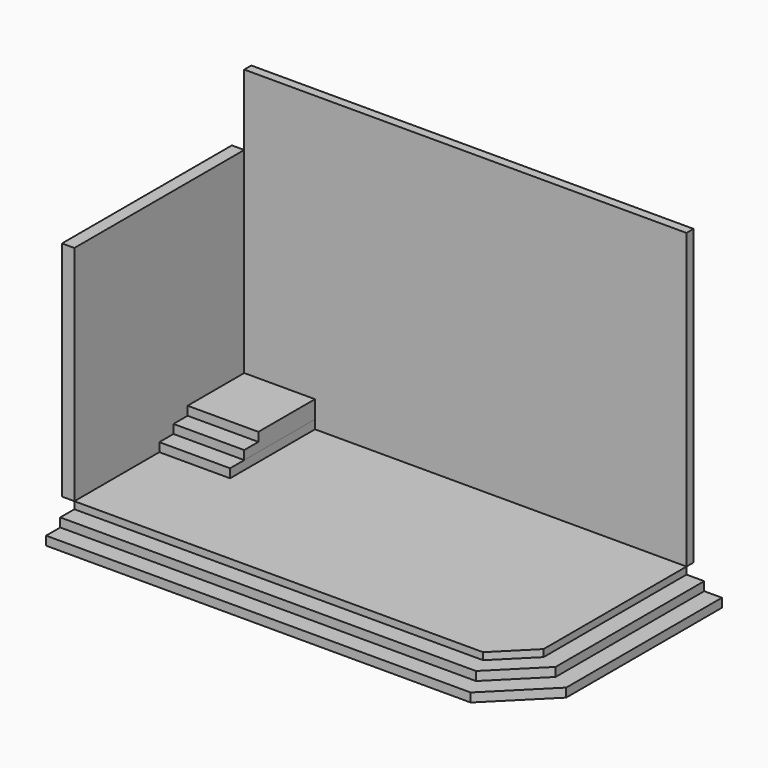
from build123d import *

# Parameters (mm, degrees)
F0_W      = 7620
F0_H      = 3657.6
F1_DEPTH  = 426.72
F2_W      = 8229.6
F2_H      = 4267.2
F3_DEPTH  = 152.4
F4_DEPTH  = 152.4
F5_W      = 1219.2
F5_H      = 1219.2
F6_DEPTH  = 457.2
F7_W      = 1219.2
F7_H      = 1524
F8_DEPTH  = 731.52
F10_DEPTH = 152.4
F12_DEPTH = 213.36
F14_DEPTH = 152.4
F15_SIZE  = 579.12
F16_SIZE  = 762
F17_W     = 1219.2
F17_H     = 1828.8
F18_DEPTH = 152.4
F19_SIZE  = 914.4


with BuildPart() as f1:
    # F0 (on Top) → F1 (new body)
    with BuildSketch(Plane.XY):
        Rectangle(F0_W, F0_H)
    extrude(amount=F1_DEPTH)

    # F2 (on face) → F3 (join)
    with BuildSketch(Plane(origin=(0, 0, 0), x_dir=(1, 0, 0), z_dir=(0, 0, -1))):
        with Locations((304.8, 304.8)):
            Rectangle(F2_W, F2_H)
    extrude(amount=-F3_DEPTH)

    # F2 (on face) → F4 (join)
    with BuildSketch(Plane(origin=(0, 0, 0), x_dir=(1, 0, 0), z_dir=(0, 0, -1))):
        Polygon((3810, 1828.8), (3810, -1828.8), (4419.6, -1828.8), (4419.6, 2438.4), (-3810, 2438.4), (-3810, 1828.8), align=None)
    extrude(amount=-F4_DEPTH)

    # F5 (on face) → F6 (join)
    with BuildSketch(Plane.XY.offset(426.72)):
        with Locations((-3200.4, 1219.2)):
            Rectangle(F5_W, F5_H)
    extrude(amount=F6_DEPTH)

    # F7 (on face) → F8 (join)
    with BuildSketch(Plane(origin=(0, 0, 0), x_dir=(1, 0, 0), z_dir=(0, 0, -1))):
        with Locations((-3200.4, -1066.8)):
            Rectangle(F7_W, F7_H)
    extrude(amount=-F8_DEPTH)

    # F13 (on face) → F14 (join)
    with BuildSketch(Plane.XY.offset(152.4)):
        Polygon((4114.8, 1828.8), (-3810, 1828.8), (-3810, -1828.8), (-3810, -2133.6), (4114.8, -2133.6), align=None)
    extrude(amount=F14_DEPTH)

    # F15
    f15_edges = [f1.edges().sort_by_distance(p)[0] for p in [
        (3810, -1828.8, 365.76),
    ]]
    chamfer(f15_edges, length=F15_SIZE)

    # F16
    f16_edges = [f1.edges().sort_by_distance(p)[0] for p in [
        (4114.8, -2133.6, 228.6),
    ]]
    chamfer(f16_edges, length=F16_SIZE)

    # F19
    f19_edges = [f1.edges().sort_by_distance(p)[0] for p in [
        (4419.6, -2438.4, 76.2),
    ]]
    chamfer(f19_edges, length=F19_SIZE)


with BuildPart() as f10:
    # F9 (on face) → F10 (new body)
    with BuildSketch(Plane(origin=(0, 1828.8, 0), x_dir=(-1, 0, 0), z_dir=(0, 1, 0))):
        Polygon((2590.8, 883.92), (3810, 883.92), (3810, 5486.4), (-3810, 5486.4), (-3810, 426.72), (2590.8, 426.72), align=None)
    extrude(amount=F10_DEPTH)


with BuildPart() as f12:
    # F11 (on face) → F12 (new body)
    with BuildSketch(Plane(origin=(-3810, 0, 0), x_dir=(0, -1, 0), z_dir=(-1, 0, 0))):
        Polygon((-1828.8, 4267.2), (-1828.8, 883.92), (-609.6, 883.92), (-609.6, 731.52), (-304.8, 731.52), (-304.8, 426.72), (1828.8, 426.72), (1828.8, 4267.2), align=None)
    extrude(amount=F12_DEPTH)


with BuildPart() as f18:
    # F17 (on face) → F18 (new body)
    with BuildSketch(Plane.XY.offset(426.72)):
        with Locations((-3200.4, 914.4)):
            Rectangle(F17_W, F17_H)
    extrude(amount=F18_DEPTH)


solid = Compound([f1.part, f10.part, f12.part, f18.part])
